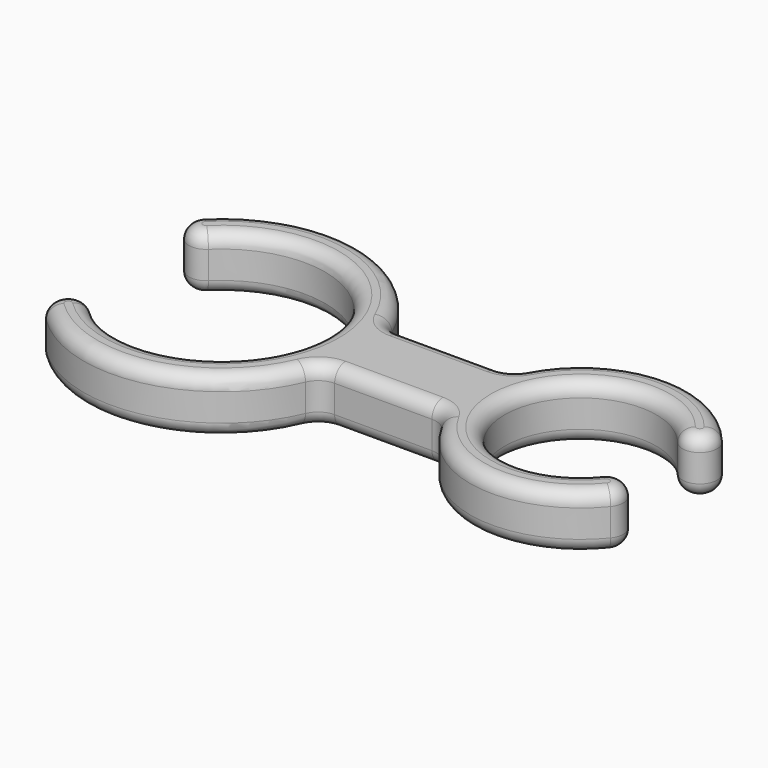
from build123d import *

# Parameters (mm, degrees)
F2_DEPTH = 8
F3_R     = 3
F4_R     = 2


with BuildPart() as f2:
    # F1 (on Top) → F2 (new body)
    with BuildSketch(Plane.XY):
        with BuildLine():
            ThreePointArc((-10.4978131834, 10.7142857143), (15, 0), (-10.4978131834, -10.7142857143))
            ThreePointArc((-10.4978131834, -10.7142857143), (-14.0331629996, -10.7503644694), (-13.9970842445, -14.2857142857))
            ThreePointArc((-13.9970842445, -14.2857142857), (4.8599571479, -19.4005365008), (19.0787840283, -6))
            Line((19.0787840283, -6), (37.1676030258, -6))
            ThreePointArc((37.1676030258, -6), (49.6352579796, -15.8242849815), (64.4303270894, -10.0740740741))
            ThreePointArc((64.4303270894, -10.0740740741), (64.0621625558, -6.5577613923), (60.545849874, -6.9259259259))
            ThreePointArc((60.545849874, -6.9259259259), (41, 0), (60.545849874, 6.9259259259))
            ThreePointArc((60.545849874, 6.9259259259), (64.0621625558, 6.5577613923), (64.4303270894, 10.0740740741))
            ThreePointArc((64.4303270894, 10.0740740741), (49.6352579796, 15.8242849815), (37.1676030258, 6))
            Line((37.1676030258, 6), (19.0787840283, 6))
            ThreePointArc((19.0787840283, 6), (4.8599571479, 19.4005365008), (-13.9970842445, 14.2857142857))
            ThreePointArc((-13.9970842445, 14.2857142857), (-14.0331629996, 10.7503644694), (-10.4978131834, 10.7142857143))
        make_face()
    extrude(amount=F2_DEPTH)

    # F3
    f3_edges = [f2.edges().sort_by_distance(p)[0] for p in [
        (19.078784, -6, 4),
        (37.167603, -6, 4),
        (19.078784, 6, 4),
        (37.167603, 6, 4),
    ]]
    fillet(f3_edges, radius=F3_R)

    # F4
    f4_edges = [f2.edges().sort_by_distance(p)[0] for p in [
        (3.910195, -19.614035, 8),
        (19.510979, -6.497827, 8),
        (-14.033163, -10.750364, 8),
        (28.216405, -6, 8),
        (15, 0, 8),
        (36.805767, -6.424815, 8),
        (-14.033163, 10.750364, 8),
        (50.501344, -15.929659, 8),
        (3.910195, 19.614035, 8),
        (64.062163, -6.557761, 8),
        (19.510979, 6.497827, 8),
        (41, 0, 8),
        (28.216405, 6, 8),
        (64.062163, 6.557761, 8),
        (36.805767, 6.424815, 8),
        (50.501344, 15.929659, 8),
        (3.910195, -19.614035, 0),
        (19.510979, -6.497827, 0),
        (-14.033163, -10.750364, 0),
        (28.216405, -6, 0),
        (15, 0, 0),
        (36.805767, -6.424815, 0),
        (-14.033163, 10.750364, 0),
        (50.501344, -15.929659, 0),
        (3.910195, 19.614035, 0),
        (64.062163, -6.557761, 0),
        (19.510979, 6.497827, 0),
        (41, 0, 0),
        (28.216405, 6, 0),
        (64.062163, 6.557761, 0),
        (36.805767, 6.424815, 0),
        (50.501344, 15.929659, 0),
    ]]
    fillet(f4_edges, radius=F4_R)


solid = f2.part
